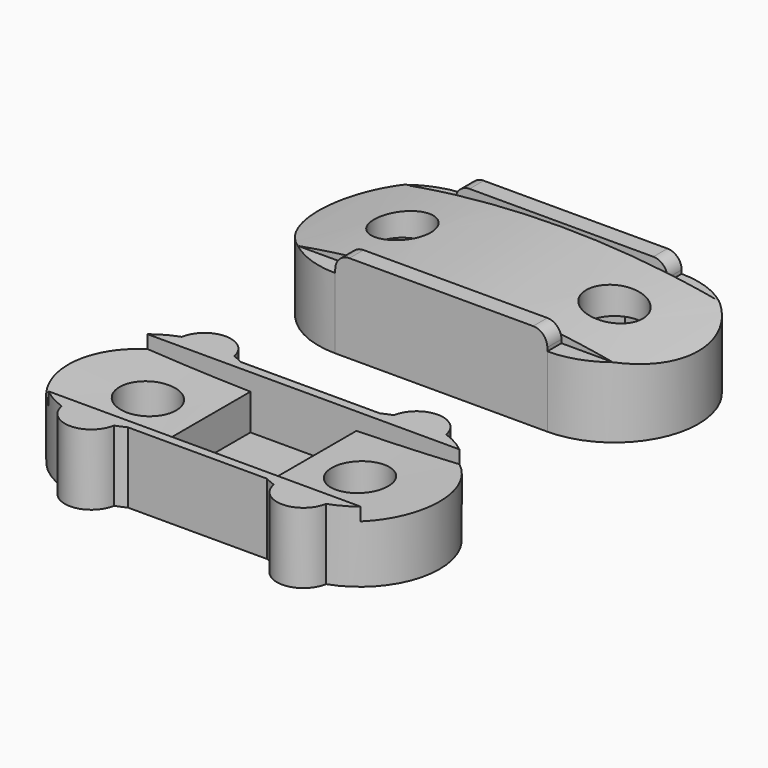
from build123d import *

# Parameters (mm, degrees)
BOX009_W               = 6
BOX009_H               = 7
BOX009_DEPTH           = 3
CYLINDER008_R          = 150
CYLINDER008_DEPTH      = 7
CYLINDER008_ROLL_ANGLE = 90
CYLINDER006_R          = 1.6
CYLINDER006_DEPTH      = 10
CYLINDER007_R          = 1.6
CYLINDER007_DEPTH      = 10
BOX008_W               = 10
BOX008_H               = 10
BOX008_DEPTH           = 10
CYLINDER005_R          = 1.5
CYLINDER005_DEPTH      = 4
CUT003_PLACEMENT_ANGLE = 180
BOX007_W               = 10
BOX007_H               = 10
BOX007_DEPTH           = 10
CYLINDER004_R          = 1.5
CYLINDER004_DEPTH      = 4
CUT002_PLACEMENT_ANGLE = 180
BOX006_W               = 10
BOX006_H               = 10
BOX006_DEPTH           = 10
CYLINDER003_R          = 1.5
CYLINDER003_DEPTH      = 4
BOX005_W               = 10
BOX005_H               = 10
BOX005_DEPTH           = 10
CYLINDER002_R          = 1.5
CYLINDER002_DEPTH      = 4
BOX003_W               = 12
BOX003_H               = 0.5
BOX003_DEPTH           = 1
BOX004_W               = 12
BOX004_H               = 0.5
BOX004_DEPTH           = 1
BOX002_W               = 12
BOX002_H               = 1
BOX002_DEPTH           = 4
BOX001_W               = 12
BOX001_H               = 1
BOX001_DEPTH           = 4
CYLINDER001_R          = 4.5
CYLINDER001_DEPTH      = 4
CYLINDER_R             = 4.5
CYLINDER_DEPTH         = 4
BOX_W                  = 12
BOX_H                  = 8
BOX_DEPTH              = 1
CYLINDER012_R          = 1.6
CYLINDER012_DEPTH      = 10
CYLINDER013_R          = 1.6
CYLINDER013_DEPTH      = 10
EXTRUDE_DEPTH          = 3
EXTRUDE001_DEPTH       = 3
CYLINDER014_R          = 50
CYLINDER014_DEPTH      = 7.5
CYLINDER014_ROLL_ANGLE = 90
CYLINDER015_R          = 51
CYLINDER015_DEPTH      = 7.5
CYLINDER015_ROLL_ANGLE = 90
BOX013_W               = 317
BOX013_H               = 10
BOX013_DEPTH           = 300
CYLINDER011_R          = 50
CYLINDER011_DEPTH      = 7.5
CYLINDER011_ROLL_ANGLE = 90
CYLINDER009_R          = 4.75
CYLINDER009_DEPTH      = 4
CYLINDER010_R          = 4.75
CYLINDER010_DEPTH      = 4
BOX011_W               = 12
BOX011_H               = 1
BOX011_DEPTH           = 2
BOX012_W               = 12
BOX012_H               = 1
BOX012_DEPTH           = 2
BOX010_W               = 12
BOX010_H               = 9.5
BOX010_DEPTH           = 4
FILLET_R               = 0.8
CUT011_PLACEMENT_ANGLE = 180


with BuildPart() as box009:
    # Box009 → Box009 (new body)
    with BuildSketch(Plane(origin=(3, -3.5, 1), x_dir=(1, 0, 0), z_dir=(0, 0, 1))):
        with Locations((3, 3.5)):
            Rectangle(BOX009_W, BOX009_H)
    extrude(amount=BOX009_DEPTH)


with BuildPart() as cylinder008:
    # Cylinder008 → Cylinder008 (new body)
    with BuildSketch(Plane.XY):
        Circle(CYLINDER008_R)
    extrude(amount=CYLINDER008_DEPTH)


with BuildPart() as cylinder008_1:
    # Cylinder008 roll: moved
    add(cylinder008.part.rotate(Axis((0, 0, 0), (1, 0, 0)), CYLINDER008_ROLL_ANGLE))


with BuildPart() as cylinder008_2:
    # Cylinder008 placement: moved
    add(cylinder008_1.part.moved(Location((6, 3.5, 153))))


with BuildPart() as cylinder006:
    # Cylinder006 → Cylinder006 (new body)
    with BuildSketch(Plane.XY):
        Circle(CYLINDER006_R)
    extrude(amount=CYLINDER006_DEPTH)


with BuildPart() as fusion004:
    # Cylinder007 → Cylinder007 (new body)
    with BuildSketch(Plane(origin=(12, 0, 0), x_dir=(1, 0, 0), z_dir=(0, 0, 1))):
        Circle(CYLINDER007_R)
    extrude(amount=CYLINDER007_DEPTH)

    # Fusion004: union Cylinder006
    add(cylinder006.part)


with BuildPart() as box008:
    # Box008 → Box008 (new body)
    with BuildSketch(Plane(origin=(-5, 0, 0), x_dir=(1, 0, 0), z_dir=(0, 0, 1))):
        with Locations((5, 5)):
            Rectangle(BOX008_W, BOX008_H)
    extrude(amount=BOX008_DEPTH)


with BuildPart() as cut003:
    # Cylinder005 → Cylinder005 (new body)
    with BuildSketch(Plane.XY):
        Circle(CYLINDER005_R)
    extrude(amount=CYLINDER005_DEPTH)

    # Cut003: cut Box008
    add(box008.part, mode=Mode.SUBTRACT)


with BuildPart() as cut003_1:
    # Cut003 placement: moved
    add(cut003.part.moved(Location((12, 4, 0))).rotate(Axis((12, 4, 0), (0, 0, 1)), CUT003_PLACEMENT_ANGLE))


with BuildPart() as box007:
    # Box007 → Box007 (new body)
    with BuildSketch(Plane(origin=(-5, 0, 0), x_dir=(1, 0, 0), z_dir=(0, 0, 1))):
        with Locations((5, 5)):
            Rectangle(BOX007_W, BOX007_H)
    extrude(amount=BOX007_DEPTH)


with BuildPart() as cut002:
    # Cylinder004 → Cylinder004 (new body)
    with BuildSketch(Plane.XY):
        Circle(CYLINDER004_R)
    extrude(amount=CYLINDER004_DEPTH)

    # Cut002: cut Box007
    add(box007.part, mode=Mode.SUBTRACT)


with BuildPart() as cut002_1:
    # Cut002 placement: moved
    add(cut002.part.moved(Location((0, 4, 0))).rotate(Axis((0, 4, 0), (0, 0, 1)), CUT002_PLACEMENT_ANGLE))


with BuildPart() as box006:
    # Box006 → Box006 (new body)
    with BuildSketch(Plane(origin=(-5, 0, 0), x_dir=(1, 0, 0), z_dir=(0, 0, 1))):
        with Locations((5, 5)):
            Rectangle(BOX006_W, BOX006_H)
    extrude(amount=BOX006_DEPTH)


with BuildPart() as cut001:
    # Cylinder003 → Cylinder003 (new body)
    with BuildSketch(Plane.XY):
        Circle(CYLINDER003_R)
    extrude(amount=CYLINDER003_DEPTH)

    # Cut001: cut Box006
    add(box006.part, mode=Mode.SUBTRACT)


with BuildPart() as cut001_1:
    # Cut001 placement: moved
    add(cut001.part.moved(Location((12, -4, 0))))


with BuildPart() as box005:
    # Box005 → Box005 (new body)
    with BuildSketch(Plane(origin=(-5, 0, 0), x_dir=(1, 0, 0), z_dir=(0, 0, 1))):
        with Locations((5, 5)):
            Rectangle(BOX005_W, BOX005_H)
    extrude(amount=BOX005_DEPTH)


with BuildPart() as cut:
    # Cylinder002 → Cylinder002 (new body)
    with BuildSketch(Plane.XY):
        Circle(CYLINDER002_R)
    extrude(amount=CYLINDER002_DEPTH)

    # Cut: cut Box005
    add(box005.part, mode=Mode.SUBTRACT)


with BuildPart() as cut_1:
    # Cut placement: moved
    add(cut.part.moved(Location((0, -4, 0))))


with BuildPart() as box003:
    # Box003 → Box003 (new body)
    with BuildSketch(Plane(origin=(0, 3.5, 3), x_dir=(1, 0, 0), z_dir=(0, 0, 1))):
        with Locations((6, 0.25)):
            Rectangle(BOX003_W, BOX003_H)
    extrude(amount=BOX003_DEPTH)


with BuildPart() as box004:
    # Box004 → Box004 (new body)
    with BuildSketch(Plane(origin=(0, -4, 3), x_dir=(1, 0, 0), z_dir=(0, 0, 1))):
        with Locations((6, 0.25)):
            Rectangle(BOX004_W, BOX004_H)
    extrude(amount=BOX004_DEPTH)


with BuildPart() as box002:
    # Box002 → Box002 (new body)
    with BuildSketch(Plane(origin=(0, 3, 0), x_dir=(1, 0, 0), z_dir=(0, 0, 1))):
        with Locations((6, 0.5)):
            Rectangle(BOX002_W, BOX002_H)
    extrude(amount=BOX002_DEPTH)


with BuildPart() as box001:
    # Box001 → Box001 (new body)
    with BuildSketch(Plane(origin=(0, -4, 0), x_dir=(1, 0, 0), z_dir=(0, 0, 1))):
        with Locations((6, 0.5)):
            Rectangle(BOX001_W, BOX001_H)
    extrude(amount=BOX001_DEPTH)


with BuildPart() as cylinder001:
    # Cylinder001 → Cylinder001 (new body)
    with BuildSketch(Plane(origin=(12, 0, 0), x_dir=(1, 0, 0), z_dir=(0, 0, 1))):
        Circle(CYLINDER001_R)
    extrude(amount=CYLINDER001_DEPTH)


with BuildPart() as cylinder:
    # Cylinder → Cylinder (new body)
    with BuildSketch(Plane.XY):
        Circle(CYLINDER_R)
    extrude(amount=CYLINDER_DEPTH)


with BuildPart() as cut006:
    # Box → Box (new body)
    with BuildSketch(Plane(origin=(0, -4, 0), x_dir=(1, 0, 0), z_dir=(0, 0, 1))):
        with Locations((6, 4)):
            Rectangle(BOX_W, BOX_H)
    extrude(amount=BOX_DEPTH)

    # Fusion: union Cylinder001, Cylinder
    add(cylinder001.part)
    add(cylinder.part)

    # Fusion001: union Box002, Box001
    add(box002.part)
    add(box001.part)

    # Fusion002: union Box003, Box004
    add(box003.part)
    add(box004.part)

    # Fusion003: union Cut003, Cut002, Cut001, Cut
    add(cut003_1.part)
    add(cut002_1.part)
    add(cut001_1.part)
    add(cut_1.part)

    # Cut004: cut Fusion004
    add(fusion004.part, mode=Mode.SUBTRACT)

    # Cut005: cut Cylinder008
    add(cylinder008_2.part, mode=Mode.SUBTRACT)

    # Cut006: cut Box009
    add(box009.part, mode=Mode.SUBTRACT)


with BuildPart() as cylinder012:
    # Cylinder012 → Cylinder012 (new body)
    with BuildSketch(Plane(origin=(0, -18, -9.2), x_dir=(1, 0, 0), z_dir=(0, 0, 1))):
        Circle(CYLINDER012_R)
    extrude(amount=CYLINDER012_DEPTH)


with BuildPart() as fusion005:
    # Cylinder013 → Cylinder013 (new body)
    with BuildSketch(Plane(origin=(12, -18, -9.2), x_dir=(1, 0, 0), z_dir=(0, 0, 1))):
        Circle(CYLINDER013_R)
    extrude(amount=CYLINDER013_DEPTH)

    # Fusion005: union Cylinder012
    add(cylinder012.part)


with BuildPart() as fusion005_1:
    # Fusion005 placement: moved
    add(fusion005.part.moved(Location((0, 0, 5))))


with BuildPart() as extrude_body:
    # Face → Extrude (new body)
    with BuildSketch(Plane(origin=(0, 0, 0), x_dir=(0, -1, 0), z_dir=(0, 0, -1))):
        Polygon((2.684679, 1.55), (0, 3.1), (-2.684679, 1.55), (-2.684679, -1.55), (0, -3.1), (2.684679, -1.55), align=None)
    extrude(amount=-EXTRUDE_DEPTH)


with BuildPart() as extrude_body_1:
    # Extrude placement: moved
    add(extrude_body.part.moved(Location((12, -18, 1))))


with BuildPart() as fusion009:
    # Face → Extrude001 (new body)
    with BuildSketch(Plane(origin=(0, 0, 0), x_dir=(0, -1, 0), z_dir=(0, 0, -1))):
        Polygon((2.684679, 1.55), (0, 3.1), (-2.684679, 1.55), (-2.684679, -1.55), (0, -3.1), (2.684679, -1.55), align=None)
    extrude(amount=-EXTRUDE001_DEPTH)


with BuildPart() as fusion009_1:
    # Extrude001 placement: moved
    add(fusion009.part.moved(Location((0, -18, 1))))

    # Fusion009: union Extrude body
    add(extrude_body_1.part)


with BuildPart() as cylinder014:
    # Cylinder014 → Cylinder014 (new body)
    with BuildSketch(Plane.XY):
        Circle(CYLINDER014_R)
    extrude(amount=CYLINDER014_DEPTH)


with BuildPart() as cylinder014_1:
    # Cylinder014 roll: moved
    add(cylinder014.part.rotate(Axis((0, 0, 0), (1, 0, 0)), CYLINDER014_ROLL_ANGLE))


with BuildPart() as cylinder014_2:
    # Cylinder014 placement: moved
    add(cylinder014_1.part.moved(Location((6, -14.25, 49.2))))


with BuildPart() as cut008:
    # Cylinder015 → Cylinder015 (new body)
    with BuildSketch(Plane.XY):
        Circle(CYLINDER015_R)
    extrude(amount=CYLINDER015_DEPTH)


with BuildPart() as cut008_1:
    # Cylinder015 roll: moved
    add(cut008.part.rotate(Axis((0, 0, 0), (1, 0, 0)), CYLINDER015_ROLL_ANGLE))


with BuildPart() as cut008_2:
    # Cylinder015 placement: moved
    add(cut008_1.part.moved(Location((6, -14.25, 49.2))))

    # Cut008: cut Cylinder014
    add(cylinder014_2.part, mode=Mode.SUBTRACT)


with BuildPart() as box013:
    # Box013 → Box013 (new body)
    with BuildSketch(Plane(origin=(-150, -22, 0), x_dir=(1, 0, 0), z_dir=(0, 0, 1))):
        with Locations((158.5, 5)):
            Rectangle(BOX013_W, BOX013_H)
    extrude(amount=BOX013_DEPTH)


with BuildPart() as cut007:
    # Cylinder011 → Cylinder011 (new body)
    with BuildSketch(Plane.XY):
        Circle(CYLINDER011_R)
    extrude(amount=CYLINDER011_DEPTH)


with BuildPart() as cut007_1:
    # Cylinder011 roll: moved
    add(cut007.part.rotate(Axis((0, 0, 0), (1, 0, 0)), CYLINDER011_ROLL_ANGLE))


with BuildPart() as cut007_2:
    # Cylinder011 placement: moved
    add(cut007_1.part.moved(Location((6, -14.25, 49.2))))

    # Cut007: cut Box013
    add(box013.part, mode=Mode.SUBTRACT)


with BuildPart() as cylinder009:
    # Cylinder009 → Cylinder009 (new body)
    with BuildSketch(Plane(origin=(12, -18, 0), x_dir=(1, 0, 0), z_dir=(0, 0, 1))):
        Circle(CYLINDER009_R)
    extrude(amount=CYLINDER009_DEPTH)


with BuildPart() as cylinder010:
    # Cylinder010 → Cylinder010 (new body)
    with BuildSketch(Plane(origin=(0, -18, 0), x_dir=(1, 0, 0), z_dir=(0, 0, 1))):
        Circle(CYLINDER010_R)
    extrude(amount=CYLINDER010_DEPTH)


with BuildPart() as box011:
    # Box011 → Box011 (new body)
    with BuildSketch(Plane(origin=(0, -22.75, -1), x_dir=(1, 0, 0), z_dir=(0, 0, 1))):
        with Locations((6, 0.5)):
            Rectangle(BOX011_W, BOX011_H)
    extrude(amount=BOX011_DEPTH)


with BuildPart() as box012:
    # Box012 → Box012 (new body)
    with BuildSketch(Plane(origin=(0, -14.25, -1), x_dir=(1, 0, 0), z_dir=(0, 0, 1))):
        with Locations((6, 0.5)):
            Rectangle(BOX012_W, BOX012_H)
    extrude(amount=BOX012_DEPTH)


with BuildPart() as cut011:
    # Box010 → Box010 (new body)
    with BuildSketch(Plane(origin=(0, -22.75, 0), x_dir=(1, 0, 0), z_dir=(0, 0, 1))):
        with Locations((6, 4.75)):
            Rectangle(BOX010_W, BOX010_H)
    extrude(amount=BOX010_DEPTH)

    # Fusion006: union Box011, Box012
    add(box011.part)
    add(box012.part)

    # Fillet
    fillet_edges = [cut011.edges().sort_by_distance(p)[0] for p in [
        (0, -13.75, -1),
        (12, -13.75, -1),
        (0, -22.25, -1),
        (12, -22.25, -1),
    ]]
    fillet(fillet_edges, radius=FILLET_R)

    # Fusion007: union Cylinder009, Cylinder010
    add(cylinder009.part)
    add(cylinder010.part)

    # Fusion008: union Cut007
    add(cut007_2.part)

    # Cut009: cut Cut008
    add(cut008_2.part, mode=Mode.SUBTRACT)

    # Cut010: cut Fusion009
    add(fusion009_1.part, mode=Mode.SUBTRACT)

    # Cut011: cut Fusion005
    add(fusion005_1.part, mode=Mode.SUBTRACT)


with BuildPart() as cut011_1:
    # Cut011 placement: moved
    add(cut011.part.moved(Location((0, 0, 4))).rotate(Axis((0, 0, 4), (1, 0, 0)), CUT011_PLACEMENT_ANGLE))


solid = Compound([cut006.part, cut011_1.part])
